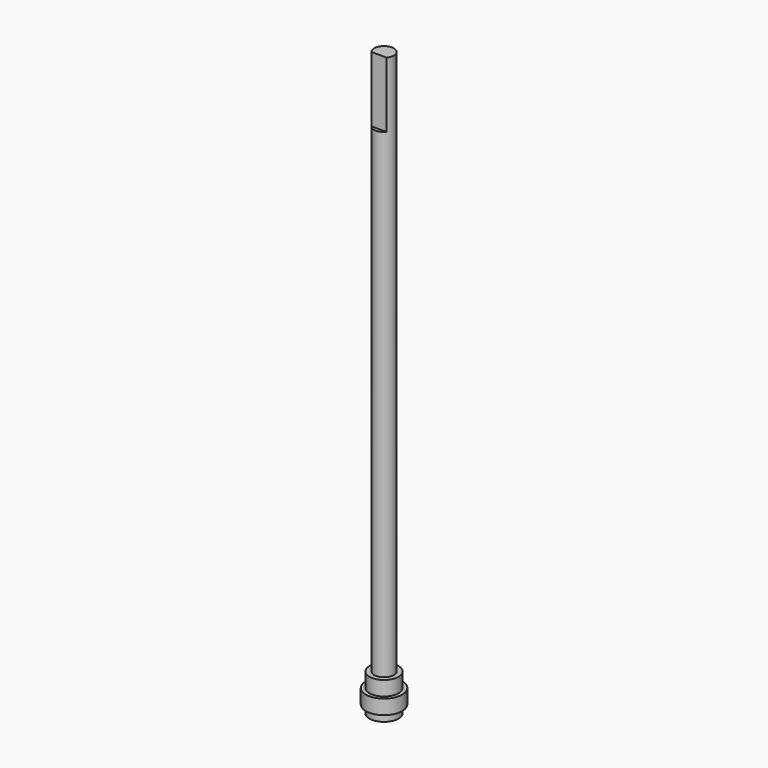
from build123d import *

# Parameters (mm, degrees)
F0_R     = 3.175
F1_DEPTH = 1.70942
F2_R     = 3.96875
F3_DEPTH = 3.175
F4_R     = 3.175
F5_DEPTH = 3.175
F6_R     = 2.15265
F7_DEPTH = 119.0625
F8_W     = 3.339038
F8_H     = 0.79375
F9_DEPTH = 14.2875


with BuildPart() as f1:
    # F0 (on Top) → F1 (new body)
    with BuildSketch(Plane.XY):
        Circle(F0_R)
    extrude(amount=F1_DEPTH)

    # F2 (on face) → F3 (join)
    with BuildSketch(Plane.XY.offset(1.70942)):
        Circle(F2_R)
    extrude(amount=F3_DEPTH)

    # F4 (on face) → F5 (join)
    with BuildSketch(Plane.XY.offset(4.88442)):
        Circle(F4_R)
    extrude(amount=F5_DEPTH)

    # F6 (on face) → F7 (join)
    with BuildSketch(Plane.XY.offset(8.05942)):
        Circle(F6_R)
    extrude(amount=F7_DEPTH)

    # F8 (on face) → F9 (cut)
    with BuildSketch(Plane.XY.offset(127.12192)):
        with Locations((0, -1.755775)):
            Rectangle(F8_W, F8_H)
    extrude(amount=-F9_DEPTH, mode=Mode.SUBTRACT)


solid = f1.part
